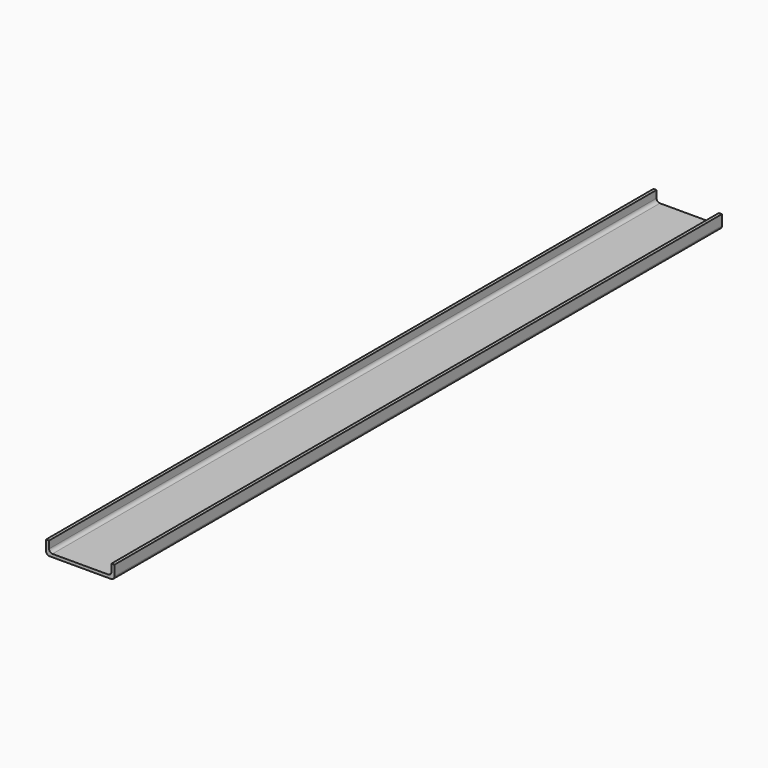
from build123d import *

# Parameters (mm, degrees)
F1_DEPTH = 1128


with BuildPart() as f1:
    # F0 (on Front) → F1 (new body)
    with BuildSketch(Plane.XZ):
        with BuildLine():
            ThreePointArc((0, 5), (1.464466, 1.464466), (5, 0))
            Line((5, 0), (96.6, 0))
            ThreePointArc((96.6, 0), (100.135534, 1.464466), (101.6, 5))
            Line((101.6, 5), (101.6, 20.3))
            Line((101.6, 20.3), (97.1, 20.3))
            Line((97.1, 20.3), (97.1, 9.5))
            ThreePointArc((97.1, 9.5), (95.635534, 5.964466), (92.1, 4.5))
            Line((92.1, 4.5), (9.5, 4.5))
            ThreePointArc((9.5, 4.5), (5.964466, 5.964466), (4.5, 9.5))
            Line((4.5, 9.5), (4.5, 20.3))
            Line((4.5, 20.3), (0, 20.3))
            Line((0, 20.3), (0, 5))
        make_face()
    extrude(amount=F1_DEPTH)


solid = f1.part
